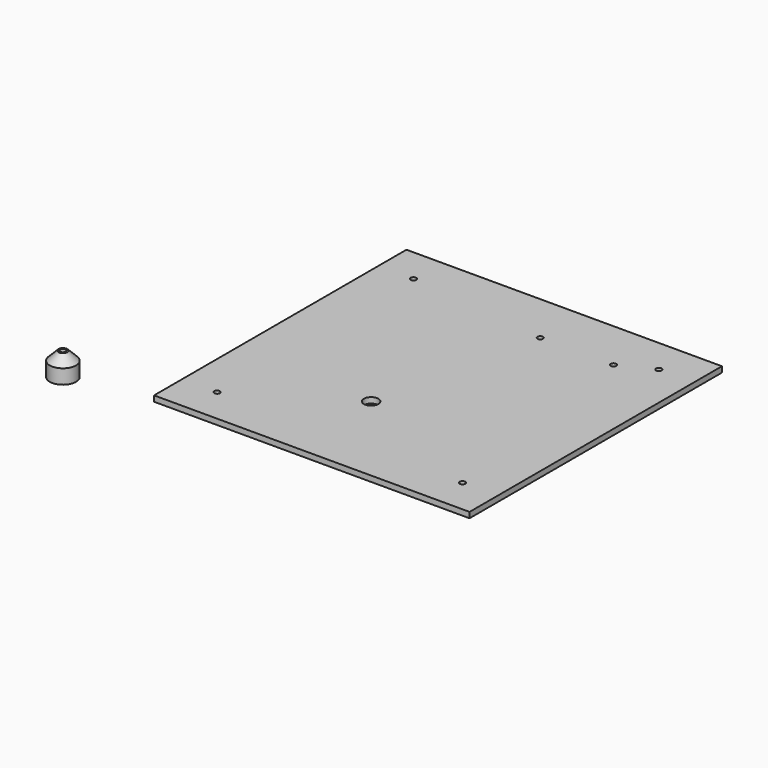
from build123d import *

# Parameters (mm, degrees)
F0_W     = 180
F0_H     = 180
F0_R     = 1.6
F0_R_2   = 4.15
F1_DEPTH = 3.22
F2_R     = 1.6
F3_DEPTH = 25
F4_R     = 7.5
F4_R_2   = 1.6
F5_DEPTH = 13.238
F6_SIZE  = 5


with BuildPart() as f1:
    # F0 (on Top) → F1 (new body)
    with BuildSketch(Plane.XY):
        with Locations((40.364936, 44.984654)):
            Rectangle(F0_W, F0_H)
        with Locations((-29.635064, -25.015346)):
            Circle(F0_R, mode=Mode.SUBTRACT)
        with Locations((29.514936, 10.834654)):
            Circle(F0_R_2, mode=Mode.SUBTRACT)
        with Locations((110.364936, -25.015346)):
            Circle(F0_R, mode=Mode.SUBTRACT)
        with Locations((-29.635064, 114.984654)):
            Circle(F0_R, mode=Mode.SUBTRACT)
        with Locations((110.364936, 114.984654)):
            Circle(F0_R, mode=Mode.SUBTRACT)
    extrude(amount=F1_DEPTH)

    # F2 (on Top) → F3 (cut)
    with BuildSketch(Plane.XY):
        with Locations((50.035417, 105.817311)):
            Circle(F2_R)
        with Locations((91.835417, 105.817311)):
            Circle(F2_R)
    extrude(amount=F3_DEPTH, mode=Mode.SUBTRACT)


with BuildPart() as f5:
    # F4 (on Top) → F5 (new body)
    with BuildSketch(Plane.XY):
        with Locations((-96.290767, -51.716264)):
            Circle(F4_R)
        with Locations((-96.290767, -51.716264)):
            Circle(F4_R_2, mode=Mode.SUBTRACT)
    extrude(amount=F5_DEPTH)

    # F6
    f6_edges = [f5.edges().sort_by_distance(p)[0] for p in [
        (-103.790767, -51.716264, 13.238),
    ]]
    chamfer(f6_edges, length=F6_SIZE)


solid = Compound([f1.part, f5.part])
